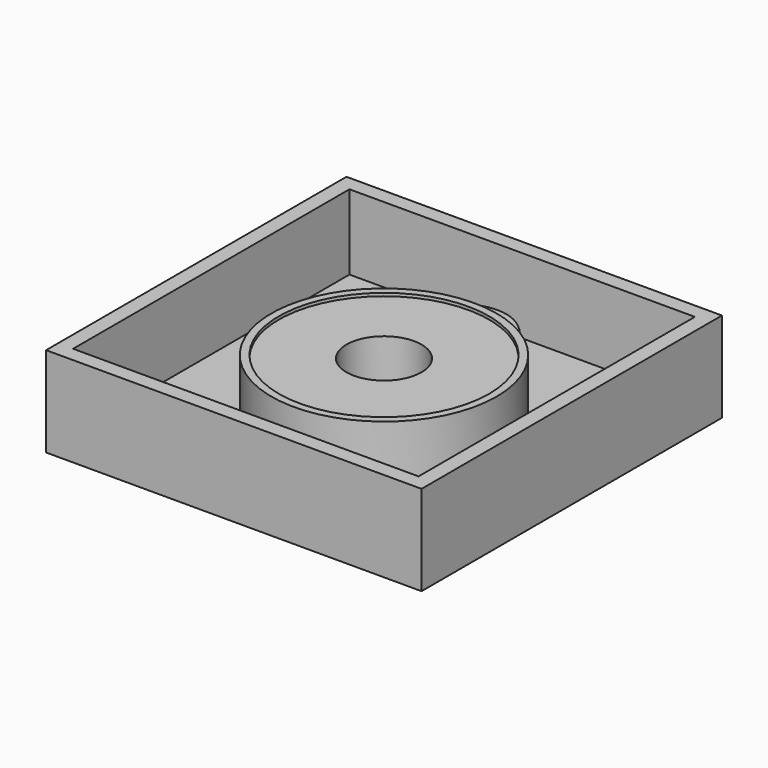
from build123d import *

# Parameters (mm, degrees)
SKETCH_R          = 15
PAD_DEPTH         = 7
SKETCH001_R       = 1.5
PAD001_DEPTH      = 5
SKETCH002_R       = 15
SKETCH002_R_2     = 14
PAD002_DEPTH      = 7.4
SKETCH003_W       = 50
SKETCH003_H       = 50
PAD003_DEPTH      = 2
SKETCH004_W       = 50
SKETCH004_H       = 50
SKETCH004_W_2     = 46
SKETCH004_H_2     = 46
PAD004_DEPTH      = 10
SKETCH005_R       = 5
POCKET_DEPTH      = 2.001
POCKET_DEPTH_BACK = -10.001


with BuildPart() as part:
    # Sketch → Pad (new body)
    with BuildSketch(Plane.XY):
        Circle(SKETCH_R)
    extrude(amount=PAD_DEPTH)

    # Sketch001 → Pad001 (join)
    with BuildSketch(Plane.XY):
        with BuildLine():
            add(Edge.make_bspline(
                [(-6.970964, 13.281779), (-4.960107, 17.400153), (0, 20.361549), (4.960107, 17.400153), (6.970964, 13.281779)],
                knots=[0, 0, 0, 0, 0.5, 1, 1, 1, 1], degree=3))
            Line((6.970964, 13.281779), (-6.970964, 13.281779))
        make_face()
        with Locations((0, 16.734485)):
            Circle(SKETCH001_R, mode=Mode.SUBTRACT)
    extrude(amount=PAD001_DEPTH)

    # Sketch002 → Pad002 (join)
    with BuildSketch(Plane.XY):
        Circle(SKETCH002_R)
        Circle(SKETCH002_R_2, mode=Mode.SUBTRACT)
    extrude(amount=PAD002_DEPTH)

    # Sketch003 → Pad003 (join)
    with BuildSketch(Plane.XY):
        Rectangle(SKETCH003_W, SKETCH003_H)
    extrude(amount=-PAD003_DEPTH)

    # Sketch004 → Pad004 (join)
    with BuildSketch(Plane.XY):
        Rectangle(SKETCH004_W, SKETCH004_H)
        Rectangle(SKETCH004_W_2, SKETCH004_H_2, mode=Mode.SUBTRACT)
    extrude(amount=PAD004_DEPTH)

    # Sketch005 → Pocket (cut, two sides)
    with BuildSketch(Plane.XY) as pocket_sk:
        Circle(SKETCH005_R)
    extrude(amount=-POCKET_DEPTH, mode=Mode.SUBTRACT)
    extrude(pocket_sk.sketch, amount=-POCKET_DEPTH_BACK, mode=Mode.SUBTRACT)


solid = part.part
